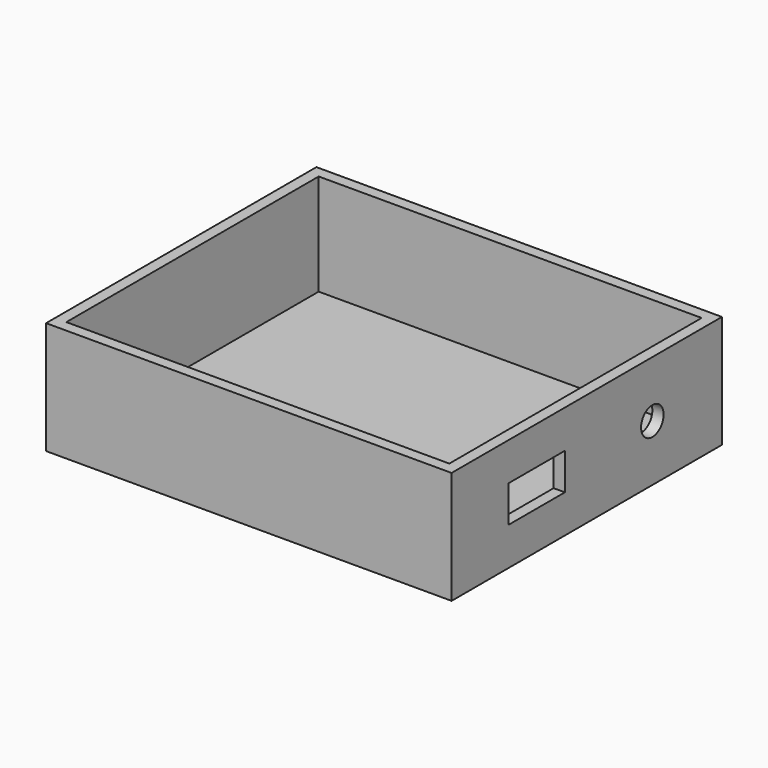
from build123d import *

# Parameters (mm, degrees)
F0_W     = 91.44
F0_H     = 25.4
F1_DEPTH = 38.1
F2_T     = -2.54
F3_W     = 15.875
F3_H     = 8.255
F3_R     = 3.175
F4_DEPTH = 2.54


with BuildPart() as f1:
    # F0 (on Front) → F1 (new body, symmetric)
    with BuildSketch(Plane.XZ):
        Rectangle(F0_W, F0_H)
    extrude(amount=F1_DEPTH, both=True)

    # F2
    f2_openings = [f1.faces().sort_by_distance(p)[0] for p in [
        (0, 0, 12.7),
    ]]
    offset(amount=F2_T, openings=f2_openings)

    # F3 (on face) → F4 (cut, through all)
    with BuildSketch(Plane.YZ.offset(45.72)):
        with Locations((-14.100978, 0)):
            Rectangle(F3_W, F3_H)
        with Locations((18.487949, 0)):
            Circle(F3_R)
    extrude(amount=-F4_DEPTH, mode=Mode.SUBTRACT)


solid = f1.part
